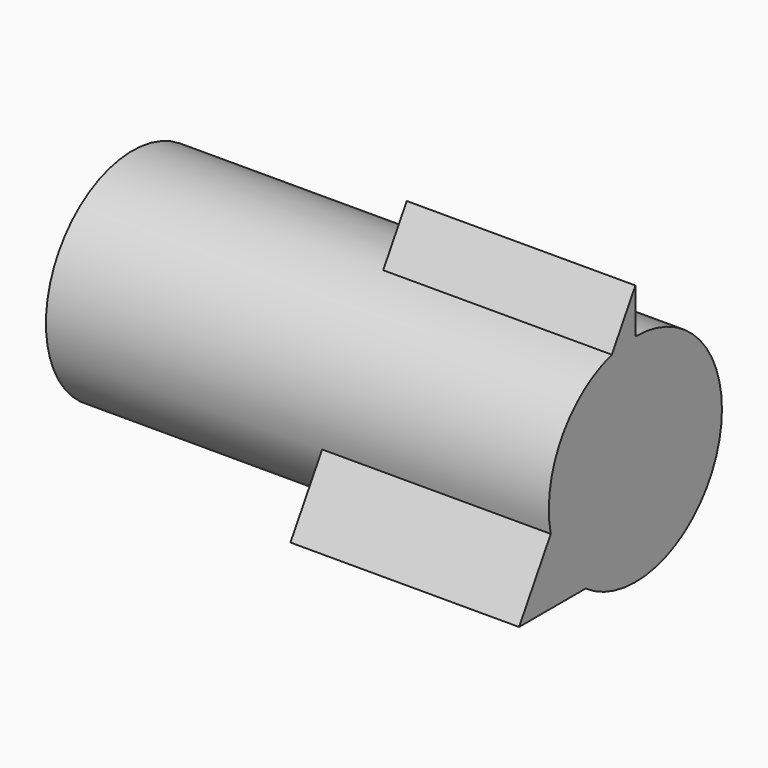
from build123d import *

# Parameters (mm, degrees)
F0_R     = 53.769252
F1_DEPTH = 250
F6_DEPTH = 113.651186


with BuildPart() as f1:
    # F0 (on Right) → F1 (new body)
    with BuildSketch(Plane.YZ):
        Circle(F0_R)
    extrude(amount=F1_DEPTH)

    # F5 (on face) → F6 (join)
    with BuildSketch(Plane.YZ.offset(250)):
        Polygon((0, -44.011027), (0, 76.068461), (-72.264984, -44.011027), align=None)
    extrude(amount=-F6_DEPTH)


solid = f1.part
